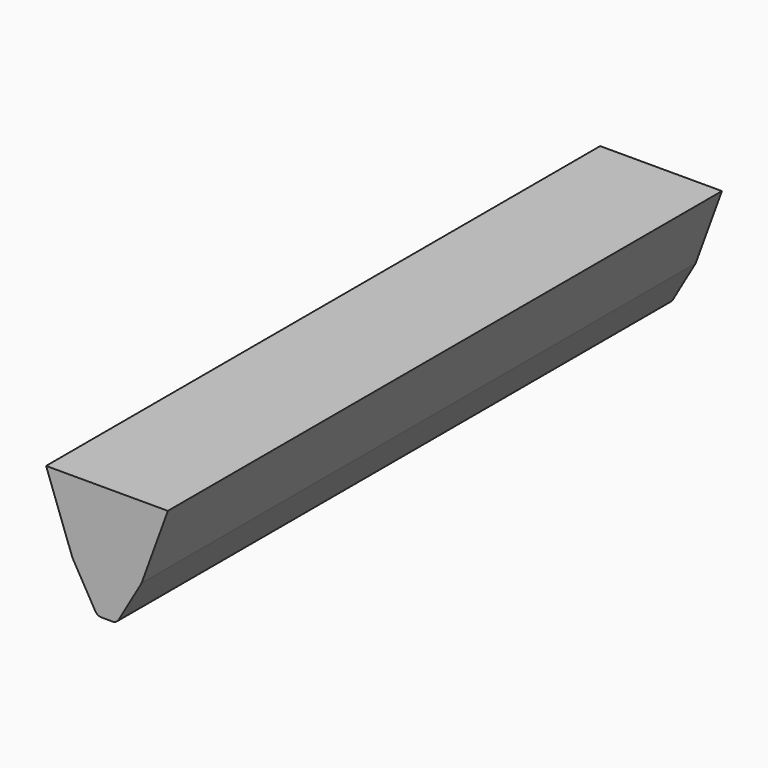
from build123d import *

# Parameters (mm, degrees)
F1_DEPTH = 304.8


with BuildPart() as f1:
    # F0 (on Front) → F1 (new body)
    with BuildSketch(Plane.XZ):
        with BuildLine():
            Line((0, 50.8), (0, 0))
            Line((0, 0), (2.40839, 0))
            ThreePointArc((2.40839, 0), (3.99589, 0.425369), (5.158021, 1.5875))
            Line((5.158021, 1.5875), (15.24, 19.05))
            Line((15.24, 19.05), (26.796055, 50.8))
            Line((26.796055, 50.8), (0, 50.8))
        make_face()
    extrude(amount=F1_DEPTH)

    # F2: F1 across face


with BuildPart() as f1_1:
    add(f1.part)
    add(f1.part.mirror(Plane(origin=(0, -152.4, 25.4), x_dir=(0, -1, 0), z_dir=(-1, 0, 0))))


solid = f1_1.part
